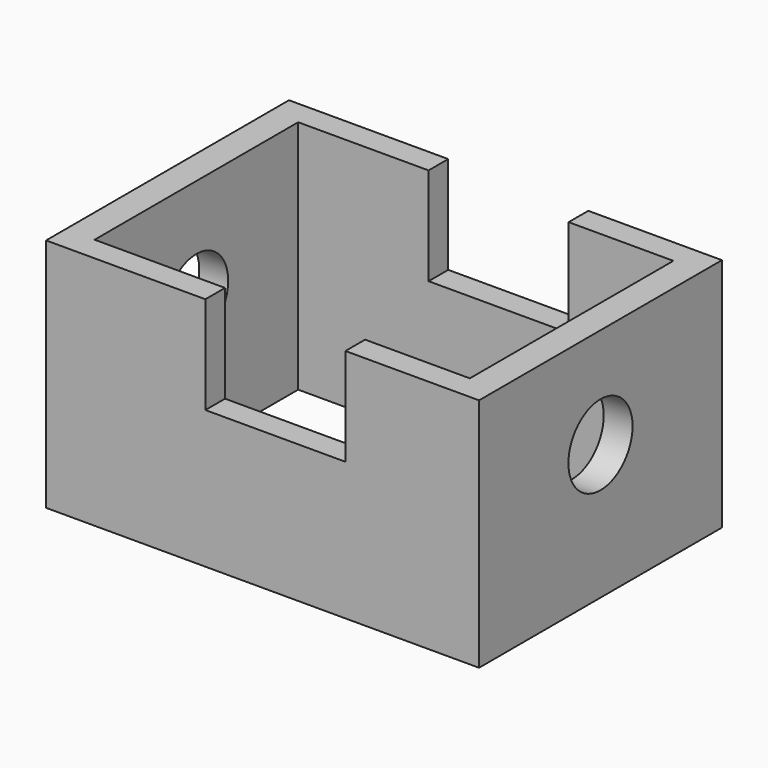
from build123d import *

# Parameters (mm, degrees)
F0_W     = 116.7713552713
F0_H     = 81.8841084838
F1_DEPTH = 63.5
F2_W     = 101.201839745
F2_H     = 68.6211884022
F3_DEPTH = 76.2
F4_W     = 37.7704855055
F4_H     = 26.3061614931
F5_DEPTH = 101.6
F6_R     = 10.7156229068
F7_DEPTH = 101.6
F8_R     = 10.8160051842
F9_DEPTH = 101.6


with BuildPart() as f1:
    # F0 (on Top) → F1 (new body)
    with BuildSketch(Plane.XY):
        Rectangle(F0_W, F0_H)
    extrude(amount=F1_DEPTH)

    # F2 (on face) → F3 (cut)
    with BuildSketch(Plane.XY.offset(63.5)):
        Rectangle(F2_W, F2_H)
    extrude(amount=-F3_DEPTH, mode=Mode.SUBTRACT)

    # F4 (on face) → F5 (cut)
    with BuildSketch(Plane.XZ.offset(40.9420542419)):
        with Locations((3.4598903731, 50.3469192535)):
            Rectangle(F4_W, F4_H)
    extrude(amount=-F5_DEPTH, mode=Mode.SUBTRACT)

    # F6 (on face) → F7 (cut)
    with BuildSketch(Plane(origin=(-58.3856776357, 0, 0), x_dir=(0, -1, 0), z_dir=(-1, 0, 0))):
        with Locations((0, 35.4638919234)):
            Circle(F6_R)
    extrude(amount=-F7_DEPTH, mode=Mode.SUBTRACT)

    # F8 (on face) → F9 (cut)
    with BuildSketch(Plane.YZ.offset(58.3856776357)):
        with Locations((0, 36.3288670778)):
            Circle(F8_R)
    extrude(amount=-F9_DEPTH, mode=Mode.SUBTRACT)


solid = f1.part
